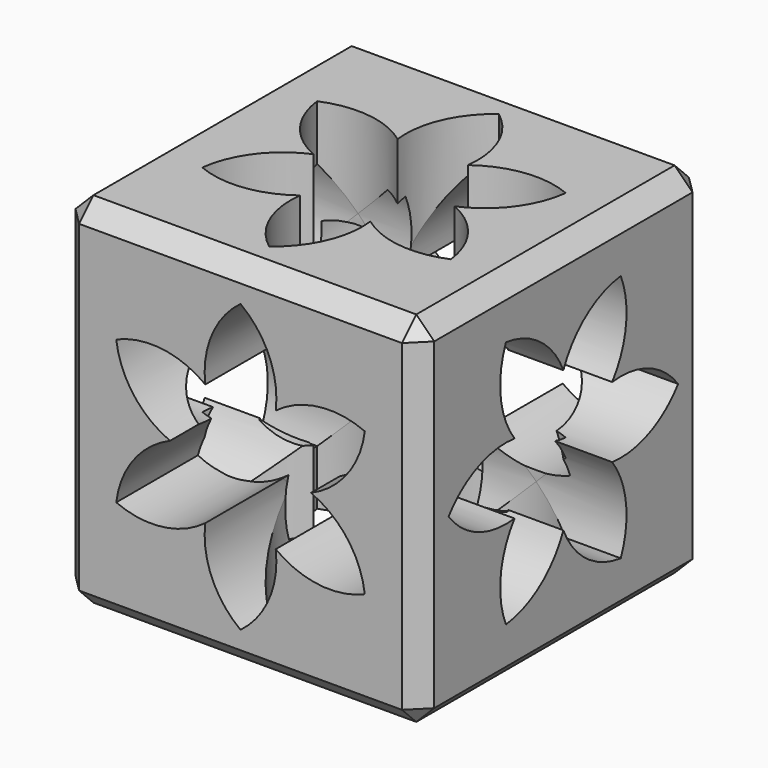
from build123d import *

# Parameters (mm, degrees)
F0_W      = 10
F0_H      = 10
F1_DEPTH  = 10
F4_SIZE   = 0.5
F6_DEPTH  = 25
F8_DEPTH  = 25
F10_DEPTH = 25


with BuildPart() as f1:
    # F0 (on Top) → F1 (new body)
    with BuildSketch(Plane.XY):
        Rectangle(F0_W, F0_H)
    extrude(amount=F1_DEPTH)

    # F4
    f4_edges = [f1.edges().sort_by_distance(p)[0] for p in [
        (5, -5, 5),
        (5, 0, 10),
        (0, -5, 10),
        (0, 5, 10),
        (-5, 0, 10),
        (0, -5, 0),
        (-5, -5, 5),
        (5, 0, 0),
        (5, 5, 5),
        (0, 5, 0),
        (-5, 5, 5),
        (-5, 0, 0),
    ]]
    chamfer(f4_edges, length=F4_SIZE)

    # F5 (on face) → F6 (cut)
    with BuildSketch(Plane.XZ.offset(5)):
        with BuildLine():
            ThreePointArc((0.982051, 6.700962), (0.799038, 7.982051), (0, 9))
            ThreePointArc((0, 9), (-0.799038, 7.982051), (-0.982051, 6.700962))
            ThreePointArc((-0.982051, 6.700962), (-2.183013, 7.183013), (-3.464102, 7))
            ThreePointArc((-3.464102, 7), (-2.982051, 5.799038), (-1.964102, 5))
            ThreePointArc((-1.964102, 5), (-2.982051, 4.200962), (-3.464102, 3))
            ThreePointArc((-3.464102, 3), (-2.183013, 2.816987), (-0.982051, 3.299038))
            ThreePointArc((-0.982051, 3.299038), (-0.799038, 2.017949), (0, 1))
            ThreePointArc((0, 1), (0.799038, 2.017949), (0.982051, 3.299038))
            ThreePointArc((0.982051, 3.299038), (2.183013, 2.816987), (3.464102, 3))
            ThreePointArc((3.464102, 3), (2.982051, 4.200962), (1.964102, 5))
            ThreePointArc((1.964102, 5), (2.982051, 5.799038), (3.464102, 7))
            ThreePointArc((3.464102, 7), (2.183013, 7.183013), (0.982051, 6.700962))
        make_face()
    extrude(amount=-F6_DEPTH, mode=Mode.SUBTRACT)

    # F7 (on face) → F8 (cut)
    with BuildSketch(Plane.XY.offset(10)):
        with BuildLine():
            ThreePointArc((0.982051, 1.700962), (0.799038, 2.982051), (0, 4))
            ThreePointArc((0, 4), (-0.799038, 2.982051), (-0.982051, 1.700962))
            ThreePointArc((-0.982051, 1.700962), (-2.183013, 2.183013), (-3.464102, 2))
            ThreePointArc((-3.464102, 2), (-2.982051, 0.799038), (-1.964102, 0))
            ThreePointArc((-1.964102, 0), (-2.982051, -0.799038), (-3.464102, -2))
            ThreePointArc((-3.464102, -2), (-2.183013, -2.183013), (-0.982051, -1.700962))
            ThreePointArc((-0.982051, -1.700962), (-0.799038, -2.982051), (0, -4))
            ThreePointArc((0, -4), (0.799038, -2.982051), (0.982051, -1.700962))
            ThreePointArc((0.982051, -1.700962), (2.183013, -2.183013), (3.464102, -2))
            ThreePointArc((3.464102, -2), (2.982051, -0.799038), (1.964102, 0))
            ThreePointArc((1.964102, 0), (2.982051, 0.799038), (3.464102, 2))
            ThreePointArc((3.464102, 2), (2.183013, 2.183013), (0.982051, 1.700962))
        make_face()
    extrude(amount=-F8_DEPTH, mode=Mode.SUBTRACT)

    # F9 (on face) → F10 (cut)
    with BuildSketch(Plane.YZ.offset(5)):
        with BuildLine():
            ThreePointArc((1.700962, 4.017949), (2.982051, 4.200962), (4, 5))
            ThreePointArc((4, 5), (2.982051, 5.799038), (1.700962, 5.982051))
            ThreePointArc((1.700962, 5.982051), (2.183013, 7.183013), (2, 8.464102))
            ThreePointArc((2, 8.464102), (0.799038, 7.982051), (0, 6.964102))
            ThreePointArc((0, 6.964102), (-0.799038, 7.982051), (-2, 8.464102))
            ThreePointArc((-2, 8.464102), (-2.183013, 7.183013), (-1.700962, 5.982051))
            ThreePointArc((-1.700962, 5.982051), (-2.982051, 5.799038), (-4, 5))
            ThreePointArc((-4, 5), (-2.982051, 4.200962), (-1.700962, 4.017949))
            ThreePointArc((-1.700962, 4.017949), (-2.183013, 2.816987), (-2, 1.535898))
            ThreePointArc((-2, 1.535898), (-0.799038, 2.017949), (0, 3.035898))
            ThreePointArc((0, 3.035898), (0.799038, 2.017949), (2, 1.535898))
            ThreePointArc((2, 1.535898), (2.183013, 2.816987), (1.700962, 4.017949))
        make_face()
    extrude(amount=-F10_DEPTH, mode=Mode.SUBTRACT)


solid = f1.part
